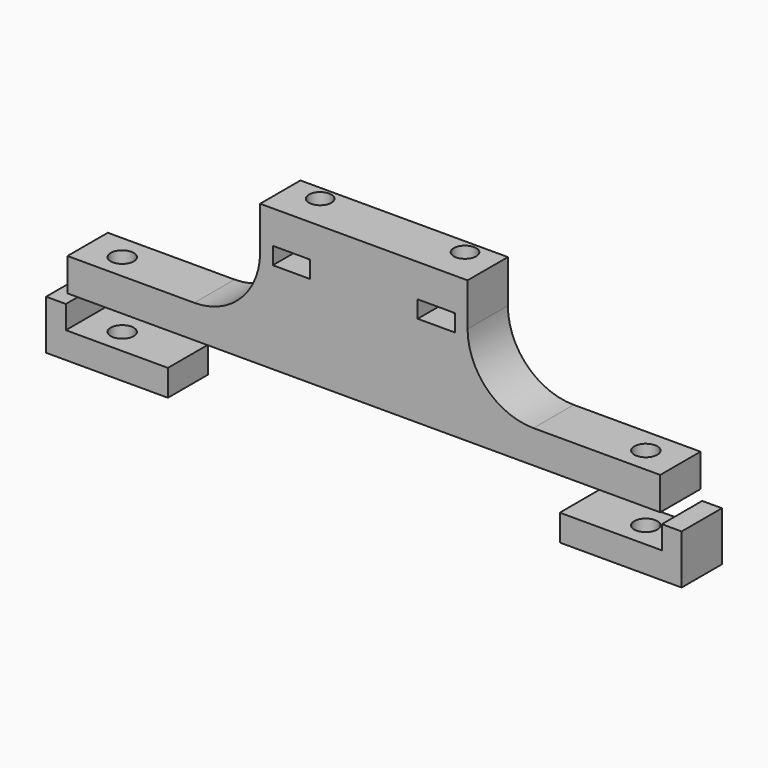
from build123d import *

# Parameters (mm, degrees)
F0_W     = 11.3
F0_H     = 5.2
F1_DEPTH = 7.65
F2_R     = 3.4
F3_DEPTH = 43
F4_R     = 3.5
F5_DEPTH = 28
F6_R     = 20


with BuildPart() as f1:
    # F0 (on Front) → F1 (new body, symmetric)
    with BuildSketch(Plane.XZ):
        Polygon((-90, 0), (-31.5, 0), (31.5, 0), (90, 0), (90, 10), (31.5, 10), (31.5, 43), (-31.5, 43), (-31.5, 10), (-90, 10), align=None)
        with Locations((-22, 30.4)):
            Rectangle(F0_W, F0_H, mode=Mode.SUBTRACT)
        with Locations((22, 30.4)):
            Rectangle(F0_W, F0_H, mode=Mode.SUBTRACT)
        Polygon((-90.5, -3), (-96.5, -3), (-96.5, -18), (-59.5, -18), (-59.5, -10), (-90.5, -10), align=None)
        Polygon((59.5, -18), (96.5, -18), (96.5, -3), (90.5, -3), (90.5, -10), (59.5, -10), align=None)
    extrude(amount=F1_DEPTH, both=True)

    # F2 (on face) → F3 (cut, through all)
    with BuildSketch(Plane.XY.offset(43)):
        with Locations((-22, 3.25)):
            Circle(F2_R)
        with Locations((22, 3.25)):
            Circle(F2_R)
    extrude(amount=-F3_DEPTH, mode=Mode.SUBTRACT)

    # F4 (on face) → F5 (cut, through all)
    with BuildSketch(Plane.XY.offset(10)):
        with Locations((-79.5, 0)):
            Circle(F4_R)
        with Locations((79.5, 0)):
            Circle(F4_R)
    extrude(amount=-F5_DEPTH, mode=Mode.SUBTRACT)

    # F6
    f6_edges = [f1.edges().sort_by_distance(p)[0] for p in [
        (31.5, 0, 10),
        (-31.5, 0, 10),
    ]]
    fillet(f6_edges, radius=F6_R)


solid = f1.part
